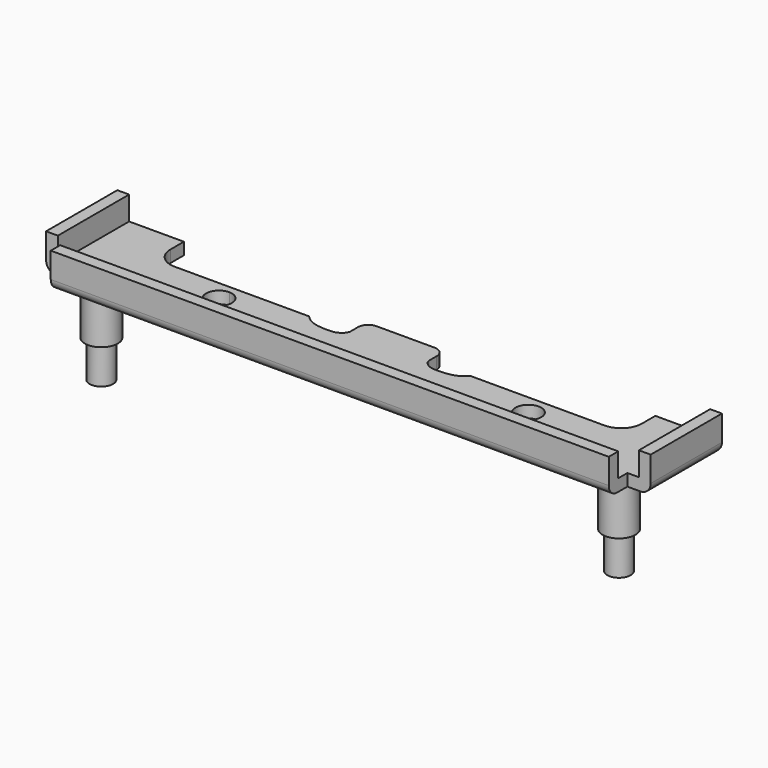
from build123d import *

# Parameters (mm, degrees)
F0_R     = 2.01295
F0_R_2   = 1.44145
F1_DEPTH = 6.096
F2_DEPTH = 4.5466
F3_R     = 1.5875
F3_W     = 53.2003
F3_H     = 1.4478
F3_W_2   = 12.7762
F3_W_3   = 1.4478
F3_H_2   = 10.922
F3_W_4   = 2.4765
F4_DEPTH = 1.4732
F5_DEPTH = 4.3815
F6_R     = 1.27


with BuildPart() as f1:
    # F0 (on Top) → F1 (new body)
    with BuildSketch(Plane.XY):
        Circle(F0_R)
        Circle(F0_R_2, mode=Mode.SUBTRACT)
        Circle(F0_R_2)
    extrude(amount=F1_DEPTH)

    # F0 (on Top) → F2, piece 2 (join)
    with BuildSketch(Plane.XY):
        Circle(F0_R_2)
    extrude(amount=-F2_DEPTH)



with BuildPart() as f1b:
    # F0 (on Top) → F1, piece 2 (new body)
    with BuildSketch(Plane.XY):
        with BuildLine():
            ThreePointArc((65.51295, 0), (63.5, 2.01295), (61.48705, 0))
            ThreePointArc((61.48705, 0), (63.5, -2.01295), (65.51295, 0))
        make_face()
        with BuildLine():
            ThreePointArc((64.94145, 0), (63.5, -1.44145), (62.05855, 0))
            ThreePointArc((62.05855, 0), (63.5, 1.44145), (64.94145, 0))
        make_face(mode=Mode.SUBTRACT)
        with BuildLine():
            ThreePointArc((64.94145, 0), (63.5, 1.44145), (62.05855, 0))
            ThreePointArc((62.05855, 0), (63.5, -1.44145), (64.94145, 0))
        make_face()
    extrude(amount=F1_DEPTH)

    # F0 (on Top) → F2 (join)
    with BuildSketch(Plane.XY):
        with BuildLine():
            ThreePointArc((64.94145, 0), (63.5, 1.44145), (62.05855, 0))
            ThreePointArc((62.05855, 0), (63.5, -1.44145), (64.94145, 0))
        make_face()
    extrude(amount=-F2_DEPTH)


with BuildPart() as f1_1:
    add(f1.part)

    add(f1b.part)  # F4 merges F1b
    # F3 (on face) → F4 (join)
    with BuildSketch(Plane.XY.offset(6.096)):
        with BuildLine():
            Line((12.7762, -3.22072), (65.9765, -3.22072))
            Line((65.9765, -3.22072), (65.9765, -1.81102))
            Line((65.9765, -1.81102), (67.3862, -1.81102))
            Line((67.3862, -1.81102), (67.3862, 9.11098))
            Line((67.3862, 9.11098), (60.6679, 9.11098))
            Line((60.6679, 9.11098), (60.6679, 7.05358))
            ThreePointArc((60.6679, 7.05358), (59.9239512242, 5.2575287758), (58.1279, 4.51358))
            Line((58.1279, 4.51358), (48.4759, 4.51358))
            Line((48.4759, 4.51358), (41.656, 4.51358))
            add(Edge.make_bspline(
                [(41.656, 4.51358), (41.2915210924, 4.1758145401), (40.5551891723, 3.4567511883), (38.111648117, 3.3607328563), (37.2421413327, 3.55540528), (36.6106444724, 4.1422323132), (36.576, 4.51358)],
                knots=[0, 0, 0, 0, 0.2581839456, 0.5779890319, 0.781834691, 1, 1, 1, 1], degree=3))
            Line((36.576, 4.51358), (36.576, 5.68198))
            ThreePointArc((36.576, 5.68198), (36.2040256121, 6.5800056121), (35.306, 6.95198))
            Line((35.306, 6.95198), (31.75, 6.95198))
            Line((31.75, 6.95198), (28.194, 6.95198))
            ThreePointArc((28.194, 6.95198), (27.2959743879, 6.5800056121), (26.924, 5.68198))
            Line((26.924, 5.68198), (26.924, 4.51358))
            add(Edge.make_bspline(
                [(21.844, 4.51358), (22.2084789076, 4.1758145401), (22.9448108277, 3.4567511883), (25.388351883, 3.3607328563), (26.2578586673, 3.55540528), (26.8893555276, 4.1422323132), (26.924, 4.51358)],
                knots=[0, 0, 0, 0, 0.2581839456, 0.5779890319, 0.781834691, 1, 1, 1, 1], degree=3))
            Line((21.844, 4.51358), (12.7762, 4.51358))
            Line((12.7762, 4.51358), (12.7762, 3.64998))
            ThreePointArc((12.7762, 3.64998), (13.8987320151, 3.1850120151), (14.3637, 2.06248))
            ThreePointArc((14.3637, 2.06248), (13.8987320151, 0.9399479849), (12.7762, 0.47498))
            Line((12.7762, 0.47498), (12.7762, -3.22072))
        make_face()
        with Locations((50.7238, 2.06248)):
            Circle(F3_R, mode=Mode.SUBTRACT)
        with BuildLine():
            Line((0, -3.22072), (12.7762, -3.22072))
            Line((12.7762, -3.22072), (12.7762, 0.47498))
            ThreePointArc((12.7762, 0.47498), (11.1887, 2.06248), (12.7762, 3.64998))
            Line((12.7762, 3.64998), (12.7762, 4.51358))
            Line((12.7762, 4.51358), (5.3721, 4.51358))
            ThreePointArc((5.3721, 4.51358), (3.5760487758, 5.2575287758), (2.8321, 7.05358))
            Line((2.8321, 7.05358), (2.8321, 9.11098))
            Line((2.8321, 9.11098), (-3.8862, 9.11098))
            Line((-3.8862, 9.11098), (-3.8862, -1.81102))
            Line((-3.8862, -1.81102), (-2.4765, -1.81102))
            Line((-2.4765, -1.81102), (-2.4765, -3.22072))
            Line((-2.4765, -3.22072), (0, -3.22072))
        make_face()
        with BuildLine():
            ThreePointArc((2.01295, 0), (1.4233705952, -1.4233705952), (0, -2.01295))
            ThreePointArc((0, -2.01295), (-1.4233705952, 1.4233705952), (2.01295, 0))
        make_face(mode=Mode.SUBTRACT)
        with Locations((39.37635, -3.94462)):
            Rectangle(F3_W, F3_H)
        with Locations((6.3881, -3.94462)):
            Rectangle(F3_W_2, F3_H)
        with Locations((68.1101, 3.64998)):
            Rectangle(F3_W_3, F3_H_2)
        with Locations((-4.6101, 3.64998)):
            Rectangle(F3_W_3, F3_H_2)
        with BuildLine():
            ThreePointArc((2.01295, 0), (-1.4233705952, 1.4233705952), (0, -2.01295))
            ThreePointArc((0, -2.01295), (1.4233705952, -1.4233705952), (2.01295, 0))
        make_face()
        with Locations((-1.23825, -3.94462)):
            Rectangle(F3_W_4, F3_H)
    extrude(amount=F4_DEPTH)

    # F3 (on face) → F5 (join)
    with BuildSketch(Plane.XY.offset(6.096)):
        with Locations((-4.6101, 3.64998)):
            Rectangle(F3_W_3, F3_H_2)
        with Locations((6.3881, -3.94462)):
            Rectangle(F3_W_2, F3_H)
        with Locations((39.37635, -3.94462)):
            Rectangle(F3_W, F3_H)
        with Locations((68.1101, 3.64998)):
            Rectangle(F3_W_3, F3_H_2)
        with Locations((-1.23825, -3.94462)):
            Rectangle(F3_W_4, F3_H)
    extrude(amount=F5_DEPTH)

    # F6
    f6_edges = [f1_1.edges().sort_by_distance(p)[0] for p in [
        (-5.334, 3.64998, 6.096),
        (31.75, -4.66852, 6.096),
        (68.834, 3.64998, 6.096),
    ]]
    fillet(f6_edges, radius=F6_R)


solid = f1_1.part
